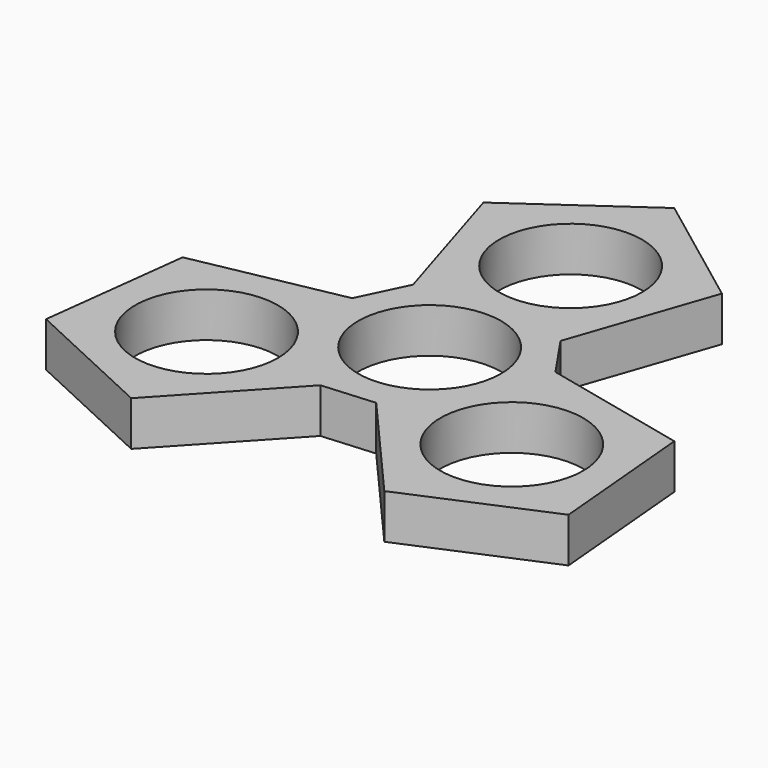
from build123d import *

# Parameters (mm, degrees)
F0_R     = 11.2
F1_DEPTH = 7


with BuildPart() as f1:
    # F0 (on Top) → F1 (new body)
    with BuildSketch(Plane.XY):
        Polygon((19.041716, 33.491162), (0.316615, 47.555812), (-18.846037, 34.093399), (-11.964106, 11.70852), (-15.543445, 4.249402), (-38.525055, -0.254971), (-41.342849, -23.50371), (-20.102732, -33.367846), (-4.157823, -16.21548), (4.091632, -15.585719), (19.483339, -33.23619), (41.026234, -24.052103), (38.948768, -0.725553), (16.121929, 4.50696), (11.451812, 11.336317), align=None)
        with Locations((-23.934381, -13.818521)):
            Circle(F0_R, mode=Mode.SUBTRACT)
        with Locations((23.934381, -13.818521)):
            Circle(F0_R, mode=Mode.SUBTRACT)
        Circle(F0_R, mode=Mode.SUBTRACT)
        with Locations((0, 27.637042)):
            Circle(F0_R, mode=Mode.SUBTRACT)
    extrude(amount=F1_DEPTH)


solid = f1.part
